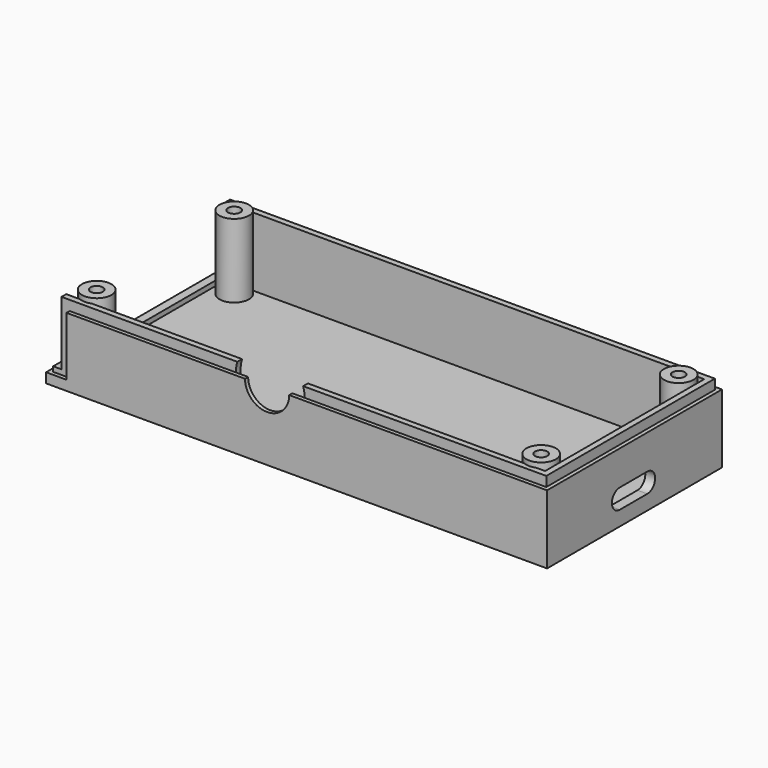
from build123d import *

# Parameters (mm, degrees)
SKETCH_W        = 102
SKETCH_H        = 44.5
PAD_DEPTH       = 16
SKETCH001_W     = 97.5
SKETCH001_H     = 40.5
POCKET_DEPTH    = 14
SKETCH002_R     = 3
PAD001_DEPTH    = 15
SKETCH007_R     = 1.25
POCKET004_DEPTH = 35
SKETCH008_R     = 2.375
POCKET005_DEPTH = 27
POCKET008_DEPTH = 5
SKETCH012_R     = 4.5
POCKET009_DEPTH = 10
SKETCH013_R     = 7
POCKET010_DEPTH = 1.2
SKETCH022_W     = 2.5
SKETCH022_H     = 44.5
POCKET018_DEPTH = 13
POCKET019_DEPTH = 2
POCKET020_DEPTH = 14


with BuildPart() as part:
    # Sketch → Pad (new body)
    with BuildSketch(Plane.XY):
        with Locations((51, 22.25)):
            Rectangle(SKETCH_W, SKETCH_H)
    extrude(amount=PAD_DEPTH)

    # Sketch001 (on Face6 of Pad) → Pocket (cut)
    with BuildSketch(Plane.XY.offset(16)):
        with Locations((51.25, 22.25)):
            Rectangle(SKETCH001_W, SKETCH001_H)
    extrude(amount=-POCKET_DEPTH, mode=Mode.SUBTRACT)

    # Sketch002 (on Face11 of Pocket) → Pad001 (join)
    with BuildSketch(Plane.XY.offset(2)):
        with Locations((6.5, 39.75)):
            Circle(SKETCH002_R)
        with Locations((97, 39.75)):
            Circle(SKETCH002_R)
        with Locations((6.5, 4.75)):
            Circle(SKETCH002_R)
        with Locations((97, 4.75)):
            Circle(SKETCH002_R)
    extrude(amount=PAD001_DEPTH)

    # Sketch007 (on DatumPlane) → Pocket004 (cut)
    with BuildSketch(Plane(origin=(0, 0, -18), x_dir=(1, 0, 0), z_dir=(0, 0, -1))):
        with Locations((6.5, -4.75)):
            Circle(SKETCH007_R)
        with Locations((97, -4.75)):
            Circle(SKETCH007_R)
        with Locations((6.5, -39.75)):
            Circle(SKETCH007_R)
        with Locations((97, -39.75)):
            Circle(SKETCH007_R)
    extrude(amount=-POCKET004_DEPTH, mode=Mode.SUBTRACT)

    # Sketch008 (on DatumPlane) → Pocket005 (cut)
    with BuildSketch(Plane(origin=(0, 0, -18), x_dir=(1, 0, 0), z_dir=(0, 0, -1))):
        with Locations((6.5, -4.75)):
            Circle(SKETCH008_R)
        with Locations((97, -4.75)):
            Circle(SKETCH008_R)
        with Locations((6.5, -39.75)):
            Circle(SKETCH008_R)
        with Locations((97, -39.75)):
            Circle(SKETCH008_R)
    extrude(amount=-POCKET005_DEPTH, mode=Mode.SUBTRACT)

    # Sketch011 → Pocket008 (cut)
    with BuildSketch(Plane.YZ.offset(102)):
        with BuildLine():
            ThreePointArc((18.5, 7), (16.5, 5), (18.5, 3))
            Line((18.5, 3), (25.5, 3))
            ThreePointArc((25.5, 3), (27.5, 5), (25.5, 7))
            Line((25.5, 7), (18.5, 7))
        make_face()
    extrude(amount=-POCKET008_DEPTH, mode=Mode.SUBTRACT)

    # Sketch012 (on Face1 of Pocket008) → Pocket009 (cut)
    with BuildSketch(Plane.XZ):
        with Locations((45, 14)):
            Circle(SKETCH012_R)
    extrude(amount=-POCKET009_DEPTH, mode=Mode.SUBTRACT)

    # Sketch013 (on Face17 of Pocket009) → Pocket010 (cut)
    with BuildSketch(Plane(origin=(0, 2, 0), x_dir=(-1, 0, 0), z_dir=(0, 1, 0))):
        with Locations((-45, 14)):
            Circle(SKETCH013_R)
    extrude(amount=-POCKET010_DEPTH, mode=Mode.SUBTRACT)

    # Sketch022 → Pocket018 (cut)
    with BuildSketch(Plane.XY.offset(16)):
        with Locations((1.25, 22.25)):
            Rectangle(SKETCH022_W, SKETCH022_H)
    extrude(amount=-POCKET018_DEPTH, mode=Mode.SUBTRACT)

    # Sketch023 (on Face4 of Pocket018) → Pocket019 (cut)
    with BuildSketch(Plane.XY.offset(16)):
        Polygon((2.499048, 44.5), (102, 44.5), (102, 0), (2.5, 0), (2.5, 0.8), (101.2, 0.8), (101.2, 43.7), (2.499048, 43.7), align=None)
    extrude(amount=-POCKET019_DEPTH, mode=Mode.SUBTRACT)

    # Sketch024 (on Face25 of Pocket019) → Pocket020 (cut)
    with BuildSketch(Plane.XY.offset(16)):
        Polygon((4.163707, 0), (4.163707, 0.8), (0.800622, 0.8), (0.800622, 43.7), (4.5, 43.7), (4.5, 44.5), (0, 44.5), (0, 0), align=None)
    extrude(amount=-POCKET020_DEPTH, mode=Mode.SUBTRACT)


solid = part.part
